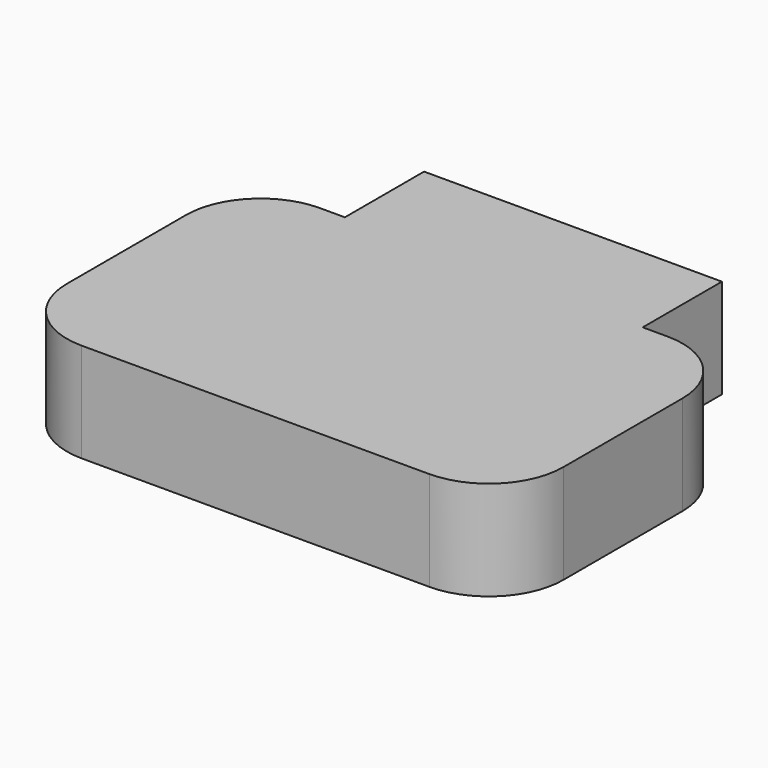
from build123d import *

# Parameters (mm, degrees)
F0_W     = 76.2
F0_H     = 25.326092267
F1_DEPTH = 25.4
F2_DEPTH = 19.05
F3_R     = 9.771245389
F4_DEPTH = 5.08


with BuildPart() as f1:
    # F0 (on Top) → F1 (new body)
    with BuildSketch(Plane.XY):
        with BuildLine():
            ThreePointArc((-63.5, -19.05), (-57.9203841816, -32.5203841816), (-44.45, -38.1))
            Line((-44.45, -38.1), (44.45, -38.1))
            ThreePointArc((44.45, -38.1), (57.9203841816, -32.5203841816), (63.5, -19.05))
            Line((63.5, -19.05), (63.5, 19.05))
            ThreePointArc((63.5, 19.05), (57.9203841816, 32.5203841816), (44.45, 38.1))
            Line((44.45, 38.1), (38.1, 38.1))
            Line((38.1, 38.1), (-38.1, 38.1))
            Line((-38.1, 38.1), (-44.45, 38.1))
            ThreePointArc((-44.45, 38.1), (-57.9203841816, 32.5203841816), (-63.5, 19.05))
            Line((-63.5, 19.05), (-63.5, -19.05))
        make_face()
        with BuildLine():
            ThreePointArc((-50.7219098508, 11.9470546514), (-45.1422940324, 25.417438833), (-31.6719098508, 30.9970546514))
            Line((-31.6719098508, 30.9970546514), (31.6719098508, 30.9970546514))
            ThreePointArc((31.6719098508, 30.9970546514), (45.1422940324, 25.417438833), (50.7219098508, 11.9470546514))
            Line((50.7219098508, 11.9470546514), (50.7219098508, -11.9470546514))
            ThreePointArc((50.7219098508, -11.9470546514), (45.1422940324, -25.417438833), (31.6719098508, -30.9970546514))
            Line((31.6719098508, -30.9970546514), (-31.6719098508, -30.9970546514))
            ThreePointArc((-31.6719098508, -30.9970546514), (-45.1422940324, -25.417438833), (-50.7219098508, -11.9470546514))
            Line((-50.7219098508, -11.9470546514), (-50.7219098508, 11.9470546514))
        make_face(mode=Mode.SUBTRACT)
        with BuildLine():
            Line((31.6719098508, 30.9970546514), (-31.6719098508, 30.9970546514))
            ThreePointArc((-31.6719098508, 30.9970546514), (-45.1422940324, 25.417438833), (-50.7219098508, 11.9470546514))
            Line((-50.7219098508, 11.9470546514), (-50.7219098508, -11.9470546514))
            ThreePointArc((-50.7219098508, -11.9470546514), (-45.1422940324, -25.417438833), (-31.6719098508, -30.9970546514))
            Line((-31.6719098508, -30.9970546514), (31.6719098508, -30.9970546514))
            ThreePointArc((31.6719098508, -30.9970546514), (45.1422940324, -25.417438833), (50.7219098508, -11.9470546514))
            Line((50.7219098508, -11.9470546514), (50.7219098508, 11.9470546514))
            ThreePointArc((50.7219098508, 11.9470546514), (45.1422940324, 25.417438833), (31.6719098508, 30.9970546514))
        make_face()
        with Locations((0, 50.7630461335)):
            Rectangle(F0_W, F0_H)
    extrude(amount=F1_DEPTH)

    # F0 (on Top) → F2 (cut)
    with BuildSketch(Plane.XY):
        with BuildLine():
            Line((31.6719098508, 30.9970546514), (-31.6719098508, 30.9970546514))
            ThreePointArc((-31.6719098508, 30.9970546514), (-45.1422940324, 25.417438833), (-50.7219098508, 11.9470546514))
            Line((-50.7219098508, 11.9470546514), (-50.7219098508, -11.9470546514))
            ThreePointArc((-50.7219098508, -11.9470546514), (-45.1422940324, -25.417438833), (-31.6719098508, -30.9970546514))
            Line((-31.6719098508, -30.9970546514), (31.6719098508, -30.9970546514))
            ThreePointArc((31.6719098508, -30.9970546514), (45.1422940324, -25.417438833), (50.7219098508, -11.9470546514))
            Line((50.7219098508, -11.9470546514), (50.7219098508, 11.9470546514))
            ThreePointArc((50.7219098508, 11.9470546514), (45.1422940324, 25.417438833), (31.6719098508, 30.9970546514))
        make_face()
    extrude(amount=F2_DEPTH, mode=Mode.SUBTRACT)

    # F3 (on face) → F4 (join)
    with BuildSketch(Plane(origin=(0, 0, 0), x_dir=(1, 0, 0), z_dir=(0, 0, -1))):
        with Locations((0, -53.2785505056)):
            Circle(F3_R)
    extrude(amount=F4_DEPTH)


solid = f1.part
